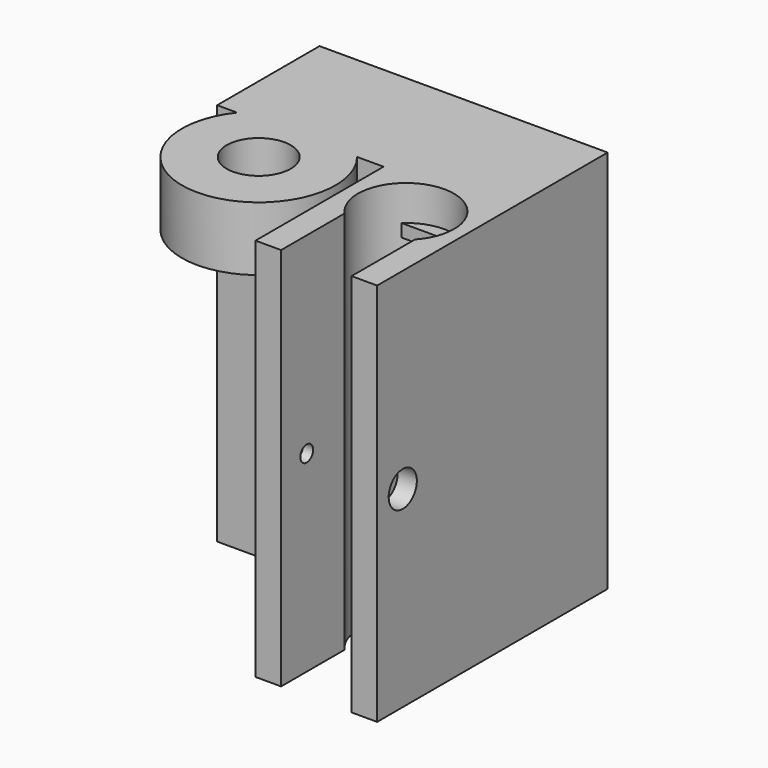
from build123d import *

# Parameters (mm, degrees)
SKETCH_W        = 45
SKETCH_H        = 60
PAD_DEPTH       = 20
SKETCH001_R     = 4
POCKET_DEPTH    = 40
SKETCH002_W     = 20
SKETCH002_H     = 10
POCKET001_DEPTH = 40
SKETCH003_W     = 19
SKETCH003_H     = 60
PAD001_DEPTH    = 25
POCKET002_DEPTH = 60
SKETCH005_W     = 19
SKETCH005_H     = 2
PAD002_DEPTH    = 2
SKETCH006_R     = 12
SKETCH006_R_2   = 5
PAD003_DEPTH    = 10
SKETCH007_R     = 1.25
POCKET003_DEPTH = 45.001
SKETCH008_R     = 2.75
POCKET004_DEPTH = 3
POCKET005_DEPTH = 2.4


with BuildPart() as part:
    # Sketch → Pad (new body)
    with BuildSketch(Plane.XZ):
        Rectangle(SKETCH_W, SKETCH_H)
    extrude(amount=PAD_DEPTH)

    # Sketch001 (on Face4 of Pad) → Pocket (cut)
    with BuildSketch(Plane(origin=(-22.5, 0, 0), x_dir=(0, 0, -1), z_dir=(-1, 0, 0))):
        with Locations((-22.5, 10)):
            Circle(SKETCH001_R)
        with Locations((22.5, 10)):
            Circle(SKETCH001_R)
    extrude(amount=-POCKET_DEPTH, mode=Mode.SUBTRACT)

    # Sketch002 (on Face2 of Pocket) → Pocket001 (cut)
    with BuildSketch(Plane(origin=(-22.5, 0, 0), x_dir=(0, 0, -1), z_dir=(-1, 0, 0))):
        with Locations((-0.462425, 10.424613)):
            Rectangle(SKETCH002_W, SKETCH002_H)
    extrude(amount=-POCKET001_DEPTH, mode=Mode.SUBTRACT)

    # Sketch003 (on Face5 of Pocket001) → Pad001 (join)
    with BuildSketch(Plane.XZ.offset(20)):
        with Locations((13, 0)):
            Rectangle(SKETCH003_W, SKETCH003_H)
    extrude(amount=PAD001_DEPTH)

    # Sketch004 (on Face6 of Pad001) → Pocket002 (cut)
    with BuildSketch(Plane(origin=(0, 0, 30), x_dir=(-1, 0, 0), z_dir=(0, 0, 1))):
        with BuildLine():
            Line((-18.5, 45), (-7.5, 45))
            Line((-7.5, 45), (-7.5, 32.59902))
            ThreePointArc((-18.5, 32.59902), (-13, 20), (-7.5, 32.59902))
            Line((-18.5, 32.59902), (-18.5, 45))
        make_face()
    extrude(amount=-POCKET002_DEPTH, mode=Mode.SUBTRACT)

    # Sketch005 (on Face4 of Pocket002) → Pad002 (join)
    with BuildSketch(Plane.XZ.offset(20)):
        with Locations((13, 23.5)):
            Rectangle(SKETCH005_W, SKETCH005_H)
        with Locations((13, -23.5)):
            Rectangle(SKETCH005_W, SKETCH005_H)
    extrude(amount=PAD002_DEPTH)

    # Sketch006 (on Face1 of Pad002) → Pad003 (join)
    with BuildSketch(Plane(origin=(0, 0, 30), x_dir=(-1, 0, 0), z_dir=(0, 0, 1))):
        with Locations((10, 27.5)):
            Circle(SKETCH006_R)
        with Locations((10, 27.5)):
            Circle(SKETCH006_R_2, mode=Mode.SUBTRACT)
    extrude(amount=-PAD003_DEPTH)

    # Sketch007 (on Face10 of Pad003) → Pocket003 (cut, through all)
    with BuildSketch(Plane(origin=(22.5, 0, 0), x_dir=(0, 0, 1), z_dir=(1, 0, 0))):
        with Locations((0, 40)):
            Circle(SKETCH007_R)
    extrude(amount=-POCKET003_DEPTH, mode=Mode.SUBTRACT)

    # Sketch008 (on Face10 of Pocket003) → Pocket004 (cut)
    with BuildSketch(Plane(origin=(22.5, 0, 0), x_dir=(0, 0, 1), z_dir=(1, 0, 0))):
        with Locations((0, 40)):
            Circle(SKETCH008_R)
    extrude(amount=-POCKET004_DEPTH, mode=Mode.SUBTRACT)

    # Sketch009 (on Face18 of Pocket004) → Pocket005 (cut)
    with BuildSketch(Plane(origin=(3.5, 0, 0), x_dir=(0, 0, -1), z_dir=(-1, 0, 0))):
        Polygon((1.587713, 37.25), (3.175426, 40), (1.587713, 42.75), (-1.587713, 42.75), (-3.175426, 40), (-1.587713, 37.25), align=None)
    extrude(amount=-POCKET005_DEPTH, mode=Mode.SUBTRACT)


solid = part.part
